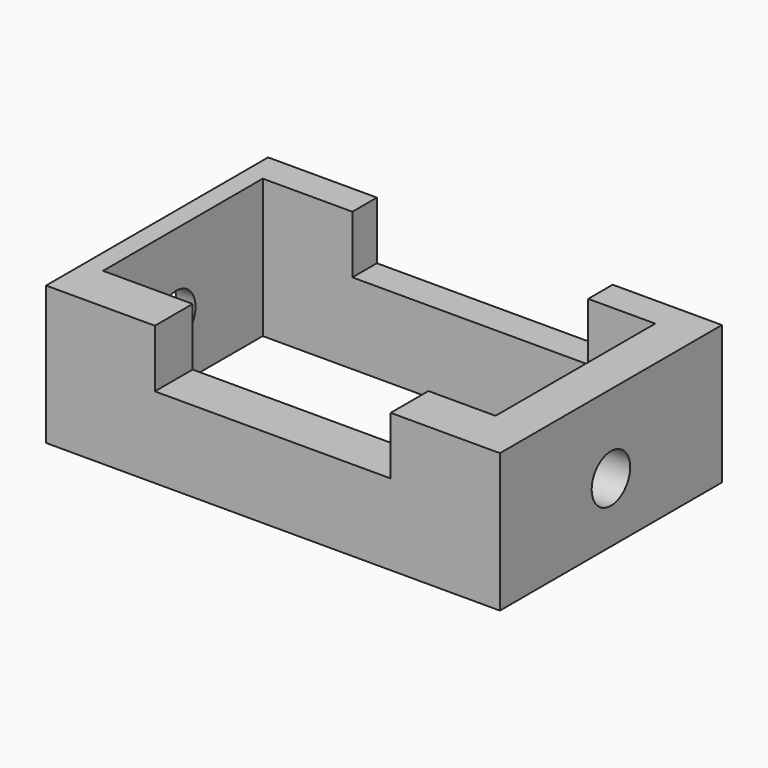
from build123d import *

# Parameters (mm, degrees)
F0_W     = 163.8257876039
F0_H     = 100.1764573157
F0_W_2   = 141.6816487908
F0_H_2   = 72.07223773
F1_DEPTH = 50.038
F2_W     = 85.1234197617
F2_H     = 20.8614202117
F3_DEPTH = 132.842
F4_R     = 8.6739070384
F5_DEPTH = 191.516


with BuildPart() as f1:
    # F0 (on Top) → F1 (new body)
    with BuildSketch(Plane.XY):
        with Locations((10.3731565177, -12.8415655345)):
            Rectangle(F0_W, F0_H)
        with Locations((6.2276907265, -9.8548047245)):
            Rectangle(F0_W_2, F0_H_2, mode=Mode.SUBTRACT)
    extrude(amount=F1_DEPTH)

    # F2 (on face) → F3 (cut)
    with BuildSketch(Plane.XZ.offset(62.9297941923)):
        with Locations((10.2989450097, 39.6072898942)):
            Rectangle(F2_W, F2_H)
    extrude(amount=-F3_DEPTH, mode=Mode.SUBTRACT)

    # F4 (on face) → F5 (cut)
    with BuildSketch(Plane(origin=(-71.5397372842, 0, 0), x_dir=(0, -1, 0), z_dir=(-1, 0, 0))):
        with Locations((12.8415655345, 21.6568429023)):
            Circle(F4_R)
    extrude(amount=-F5_DEPTH, mode=Mode.SUBTRACT)


solid = f1.part
